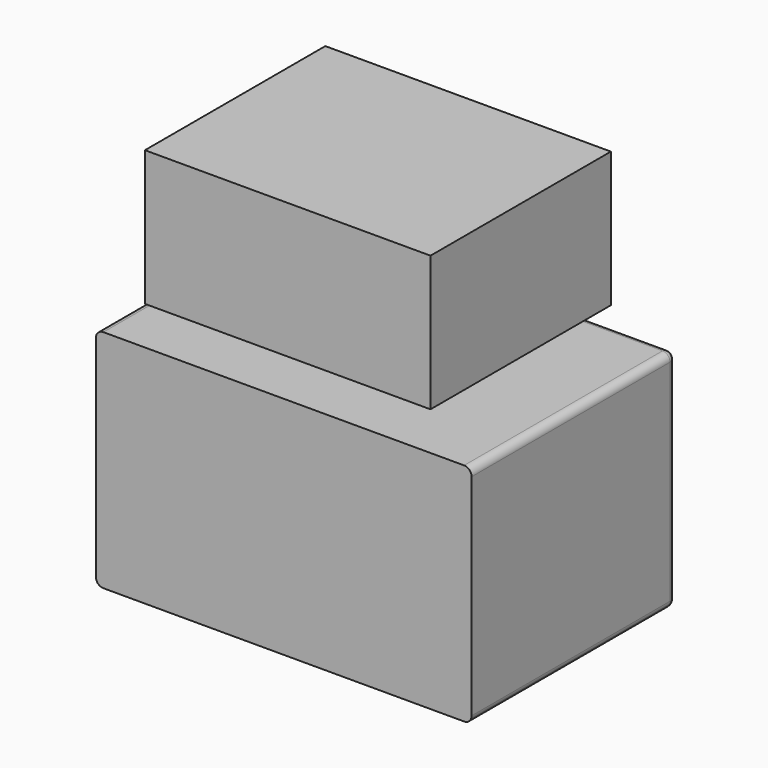
from build123d import *

# Parameters (mm, degrees)
F0_W     = 25
F0_H     = 15
F1_DEPTH = 2
F2_W     = 25
F2_H     = 15
F2_W_2   = 21
F2_H_2   = 11
F3_DEPTH = 15
F4_R     = 0.5
F5_R     = 0.5
F6_W     = 19
F6_H     = 9
F7_DEPTH = 2
F8_W     = 19
F8_H     = 9
F8_W_2   = 15
F8_H_2   = 5
F9_DEPTH = 13


with BuildPart() as f1:
    # F0 (on Front) → F1 (new body)
    with BuildSketch(Plane.XZ):
        with Locations((1.742505, 0.78626)):
            Rectangle(F0_W, F0_H)
    extrude(amount=F1_DEPTH)

    # F2 (on face) → F3 (join)
    with BuildSketch(Plane(origin=(0, 0, 0), x_dir=(-1, 0, 0), z_dir=(0, 1, 0))):
        with Locations((-1.742505, 0.78626)):
            Rectangle(F2_W, F2_H)
        with Locations((-1.742505, 0.78626)):
            Rectangle(F2_W_2, F2_H_2, mode=Mode.SUBTRACT)
    extrude(amount=F3_DEPTH)

    # F4
    f4_edges = [f1.edges().sort_by_distance(p)[0] for p in [
        (1.742505, 15, 8.28626),
        (1.742505, 15, -6.71374),
    ]]
    fillet(f4_edges, radius=F4_R)

    # F5
    f5_edges = [f1.edges().sort_by_distance(p)[0] for p in [
        (14.242505, 15, 0.78626),
        (-10.757495, 15, 0.78626),
    ]]
    fillet(f5_edges, radius=F5_R)


with BuildPart() as f7:
    # F6 (on Front) → F7 (new body)
    with BuildSketch(Plane.XZ):
        with Locations((2.005785, 15.342523)):
            Rectangle(F6_W, F6_H)
    extrude(amount=F7_DEPTH)

    # F8 (on Front) → F9 (join)
    with BuildSketch(Plane.XZ):
        with Locations((2.005785, 15.342523)):
            Rectangle(F8_W, F8_H)
        with Locations((2.005785, 15.342523)):
            Rectangle(F8_W_2, F8_H_2, mode=Mode.SUBTRACT)
    extrude(amount=-F9_DEPTH)


solid = Compound([f1.part, f7.part])
